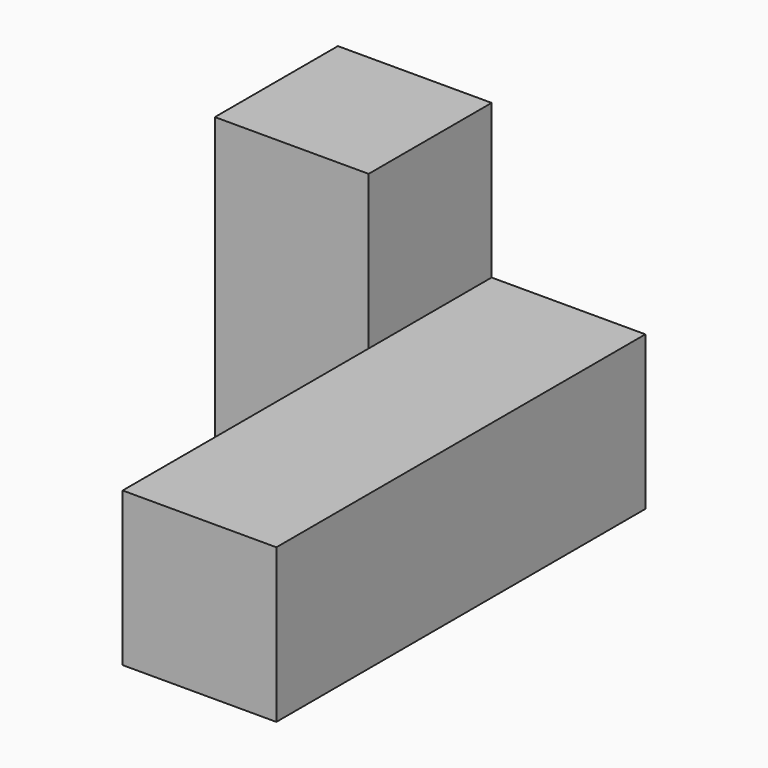
from build123d import *

# Parameters (mm, degrees)
F0_W     = 19.05
F0_H     = 19.05
F1_DEPTH = 19.05
F2_W     = 19.05
F2_H     = 19.05
F3_DEPTH = 38.1


with BuildPart() as f1:
    # F0 (on Front) → F1 (new body)
    with BuildSketch(Plane.XZ):
        with Locations((-9.525, 9.525)):
            Rectangle(F0_W, F0_H)
        with Locations((-28.575, 9.525)):
            Rectangle(F0_W, F0_H)
        with Locations((-28.575, 28.575)):
            Rectangle(F0_W, F0_H)
    extrude(amount=F1_DEPTH)

    # F2 (on face) → F3 (join)
    with BuildSketch(Plane.XZ.offset(19.05)):
        with Locations((-9.525, 9.525)):
            Rectangle(F2_W, F2_H)
    extrude(amount=F3_DEPTH)


solid = f1.part
